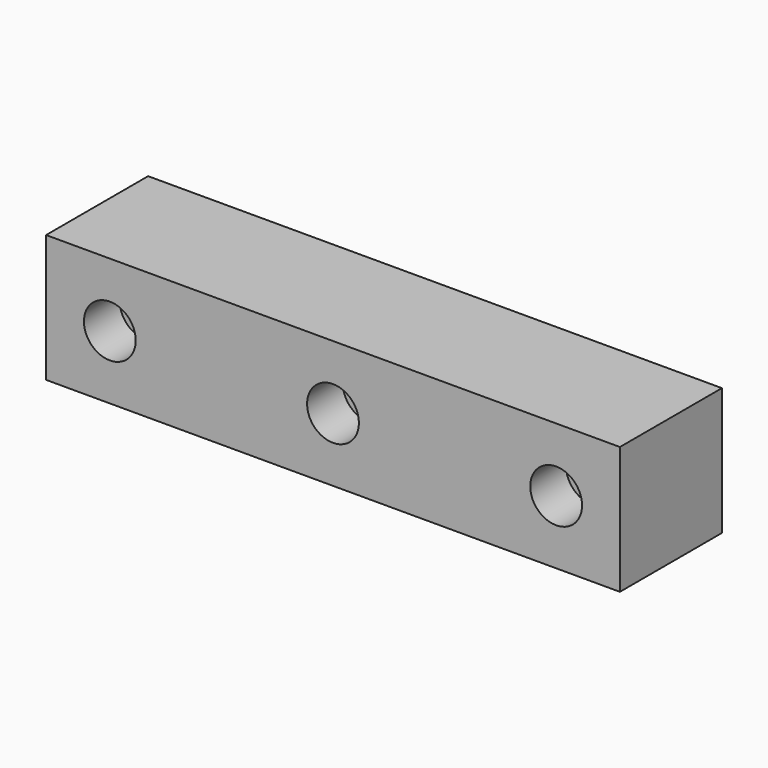
from build123d import *

# Parameters (mm, degrees)
F0_W           = 228.6
F0_H           = 50.8
F1_DEPTH       = 50.8
F3_D           = 13.4874
F3_CBORE_D     = 20.6375
F3_CBORE_DEPTH = 17.78
F5_D           = 13.4874
F5_DEPTH       = 25.4
F5_CBORE_D     = 20.6375
F5_CBORE_DEPTH = 17.78


with BuildPart() as f1:
    # F0 (on Front) → F1 (new body)
    with BuildSketch(Plane.XZ):
        Rectangle(F0_W, F0_H)
    extrude(amount=F1_DEPTH)

    # F3 (through all)
    with Locations(Plane.XZ.offset(50.8)):
        with Locations((-88.9, 0), (0, 0), (88.9, 0)):
            CounterBoreHole(F3_D / 2, F3_CBORE_D / 2, F3_CBORE_DEPTH)

    # F5
    with Locations(Plane(origin=(0, 0, 0), x_dir=(1, 0, 0), z_dir=(0, 1, 0))):
        with Locations((88.9, 0), (0, 0), (-88.9, 0)):
            CounterBoreHole(F5_D / 2, F5_CBORE_D / 2, F5_CBORE_DEPTH, depth=F5_DEPTH)


solid = f1.part
